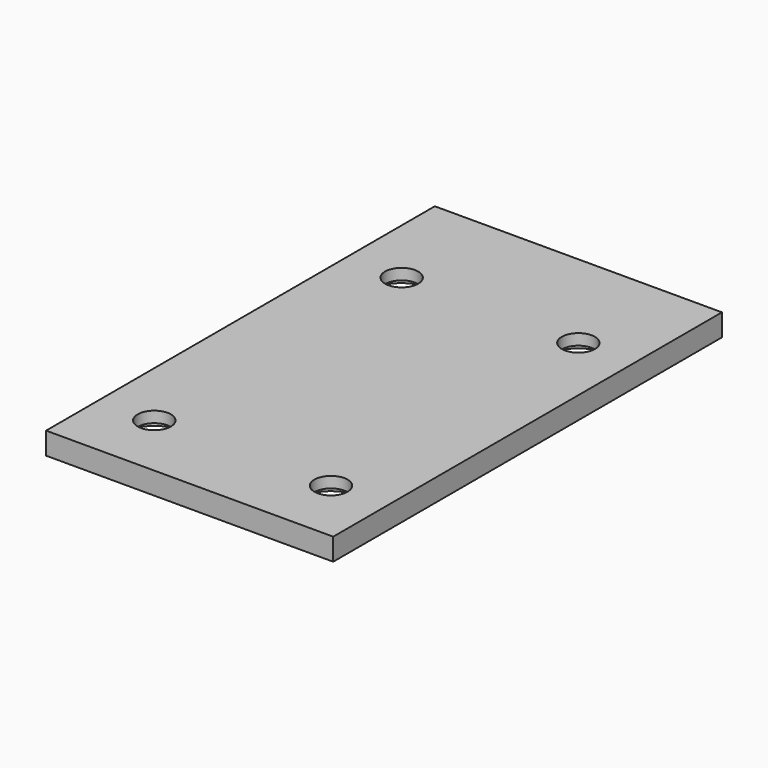
from build123d import *

# Parameters (mm, degrees)
CYLINDER1890_R               = 1.5
CYLINDER1890_DEPTH           = 20
CYLINDER1890_PLACEMENT_ANGLE = -112.5
CYLINDER1891_R               = 1.5
CYLINDER1891_DEPTH           = 20
CYLINDER1891_PLACEMENT_ANGLE = 112.5
CYLINDER1892_R               = 1.5
CYLINDER1892_DEPTH           = 20
CYLINDER1892_PLACEMENT_ANGLE = 112.5
CYLINDER1893_R               = 1.5
CYLINDER1893_DEPTH           = 20
CYLINDER1893_PLACEMENT_ANGLE = -112.5
CYLINDER1885_R               = 3
CYLINDER1885_DEPTH           = 3
CYLINDER1885_PLACEMENT_ANGLE = -112.5
CYLINDER1894_R               = 3
CYLINDER1894_DEPTH           = 3
CYLINDER1894_PLACEMENT_ANGLE = 112.5
CYLINDER1895_R               = 3
CYLINDER1895_DEPTH           = 3
CYLINDER1895_PLACEMENT_ANGLE = 112.5
CYLINDER1884_R               = 3
CYLINDER1884_DEPTH           = 3
CYLINDER1884_PLACEMENT_ANGLE = -112.5
BOX748_W                     = 26
BOX748_H                     = 44
BOX748_DEPTH                 = 2


with BuildPart() as obj1:
    # Cylinder1890 → Cylinder1890 (new body)
    with BuildSketch(Plane.XY):
        Circle(CYLINDER1890_R)
    extrude(amount=CYLINDER1890_DEPTH)


with BuildPart() as obj1_1:
    # Cylinder1890 placement: moved
    add(obj1.part.moved(Location((-8, 34, 51))).rotate(Axis((-8, 34, 51), (0, 0, 1)), CYLINDER1890_PLACEMENT_ANGLE))


with BuildPart() as obj2:
    # Cylinder1891 → Cylinder1891 (new body)
    with BuildSketch(Plane.XY):
        Circle(CYLINDER1891_R)
    extrude(amount=CYLINDER1891_DEPTH)


with BuildPart() as obj2_1:
    # Cylinder1891 placement: moved
    add(obj2.part.moved(Location((8, 62, 51))).rotate(Axis((8, 62, 51), (0, 0, -1)), CYLINDER1891_PLACEMENT_ANGLE))


with BuildPart() as obj3:
    # Cylinder1892 → Cylinder1892 (new body)
    with BuildSketch(Plane.XY):
        Circle(CYLINDER1892_R)
    extrude(amount=CYLINDER1892_DEPTH)


with BuildPart() as obj3_1:
    # Cylinder1892 placement: moved
    add(obj3.part.moved(Location((-8, 62, 51))).rotate(Axis((-8, 62, 51), (0, 0, -1)), CYLINDER1892_PLACEMENT_ANGLE))


with BuildPart() as compound848:
    # Cylinder1893 → Cylinder1893 (new body)
    with BuildSketch(Plane.XY):
        Circle(CYLINDER1893_R)
    extrude(amount=CYLINDER1893_DEPTH)


with BuildPart() as compound848_1:
    # Cylinder1893 placement: moved
    add(compound848.part.moved(Location((8, 34, 51))).rotate(Axis((8, 34, 51), (0, 0, 1)), CYLINDER1893_PLACEMENT_ANGLE))

    # Compound848: union obj1, obj2, obj3
    add(obj1_1.part)
    add(obj2_1.part)
    add(obj3_1.part)


with BuildPart() as compound848_2:
    # Compound848 placement: moved
    add(compound848_1.part.moved(Location((0, -94, -180))))


with BuildPart() as obj4:
    # Cylinder1885 → Cylinder1885 (new body)
    with BuildSketch(Plane.XY):
        Circle(CYLINDER1885_R)
    extrude(amount=CYLINDER1885_DEPTH)


with BuildPart() as obj4_1:
    # Cylinder1885 placement: moved
    add(obj4.part.moved(Location((-8, 34, 51))).rotate(Axis((-8, 34, 51), (0, 0, 1)), CYLINDER1885_PLACEMENT_ANGLE))


with BuildPart() as obj5:
    # Cylinder1894 → Cylinder1894 (new body)
    with BuildSketch(Plane.XY):
        Circle(CYLINDER1894_R)
    extrude(amount=CYLINDER1894_DEPTH)


with BuildPart() as obj5_1:
    # Cylinder1894 placement: moved
    add(obj5.part.moved(Location((8, 62, 51))).rotate(Axis((8, 62, 51), (0, 0, -1)), CYLINDER1894_PLACEMENT_ANGLE))


with BuildPart() as obj6:
    # Cylinder1895 → Cylinder1895 (new body)
    with BuildSketch(Plane.XY):
        Circle(CYLINDER1895_R)
    extrude(amount=CYLINDER1895_DEPTH)


with BuildPart() as obj6_1:
    # Cylinder1895 placement: moved
    add(obj6.part.moved(Location((-8, 62, 51))).rotate(Axis((-8, 62, 51), (0, 0, -1)), CYLINDER1895_PLACEMENT_ANGLE))


with BuildPart() as compound847:
    # Cylinder1884 → Cylinder1884 (new body)
    with BuildSketch(Plane.XY):
        Circle(CYLINDER1884_R)
    extrude(amount=CYLINDER1884_DEPTH)


with BuildPart() as compound847_1:
    # Cylinder1884 placement: moved
    add(compound847.part.moved(Location((8, 34, 51))).rotate(Axis((8, 34, 51), (0, 0, 1)), CYLINDER1884_PLACEMENT_ANGLE))

    # Compound847: union obj4, obj5, obj6
    add(obj4_1.part)
    add(obj5_1.part)
    add(obj6_1.part)


with BuildPart() as compound847_2:
    # Compound847 placement: moved
    add(compound847_1.part.moved(Location((0, -94, -183))))


with BuildPart() as cut687:
    # Box748 → Box748 (new body)
    with BuildSketch(Plane(origin=(-13, -66, -130), x_dir=(1, 0, 0), z_dir=(0, 0, 1))):
        with Locations((13, 22)):
            Rectangle(BOX748_W, BOX748_H)
    extrude(amount=BOX748_DEPTH)

    # Cut686: cut Compound847
    add(compound847_2.part, mode=Mode.SUBTRACT)

    # Cut687: cut Compound848
    add(compound848_2.part, mode=Mode.SUBTRACT)


with BuildPart() as cut687_1:
    # Cut687 placement: moved
    add(cut687.part.moved(Location((0, 0, 1))))


solid = cut687_1.part
